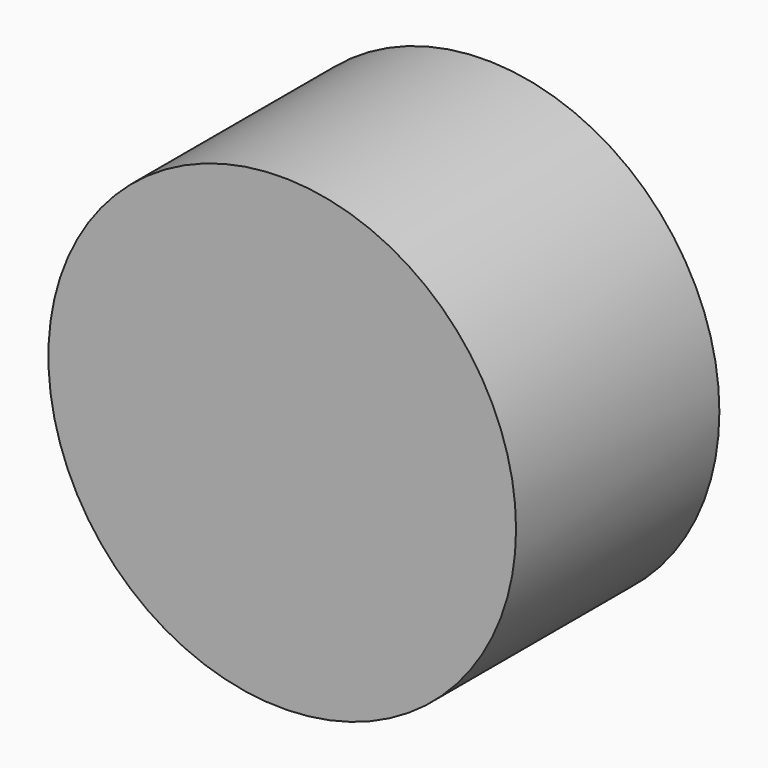
from build123d import *

# Parameters (mm, degrees)
F0_R     = 23
F0_R_2   = 20
F1_DEPTH = 25
F2_R     = 23
F3_DEPTH = 3


with BuildPart() as f1:
    # F0 (on Front) → F1 (new body)
    with BuildSketch(Plane.XZ):
        Circle(F0_R)
        Circle(F0_R_2, mode=Mode.SUBTRACT)
    extrude(amount=F1_DEPTH)

    # F2 (on face) → F3 (join)
    with BuildSketch(Plane.XZ.offset(25)):
        Circle(F2_R)
    extrude(amount=-F3_DEPTH)


solid = f1.part
